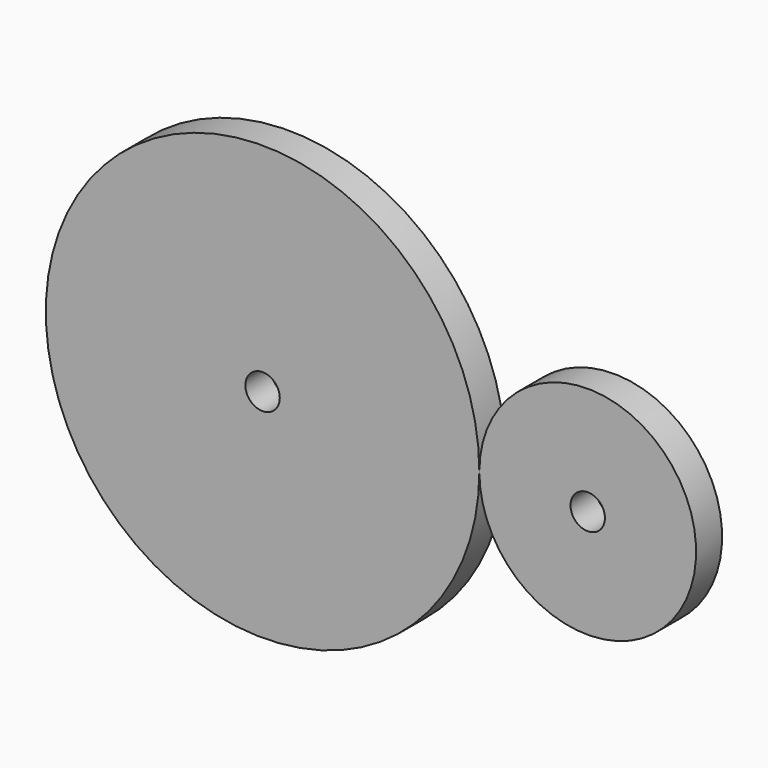
from build123d import *

# Parameters (mm, degrees)
F0_R     = 19.99996
F1_DEPTH = 2.999994
F2_R     = 1.5875
F3_DEPTH = 25.4
F4_R     = 1.5875
F5_DEPTH = 25.4


with BuildPart() as f1:
    # F0 (on Front) → F1 (new body)
    with BuildSketch(Plane.XZ):
        Circle(F0_R)
        with BuildLine():
            ThreePointArc((39.99992, 0), (29.99994, 9.99998), (19.99996, 0))
            Line((19.99996, 0), (39.99992, 0))
        make_face()
        with BuildLine():
            Line((39.99992, 0), (19.99996, 0))
            ThreePointArc((19.99996, 0), (29.99994, -9.99998), (39.99992, 0))
        make_face()
    extrude(amount=F1_DEPTH)

    # F2 (on face) → F3 (cut)
    with BuildSketch(Plane.XZ.offset(2.999994)):
        Circle(F2_R)
    extrude(amount=-F3_DEPTH, mode=Mode.SUBTRACT)

    # F4 (on face) → F5 (cut)
    with BuildSketch(Plane(origin=(0, 0, 0), x_dir=(-1, 0, 0), z_dir=(0, 1, 0))):
        with Locations((-29.99994, 0)):
            Circle(F4_R)
    extrude(amount=-F5_DEPTH, mode=Mode.SUBTRACT)


solid = f1.part
